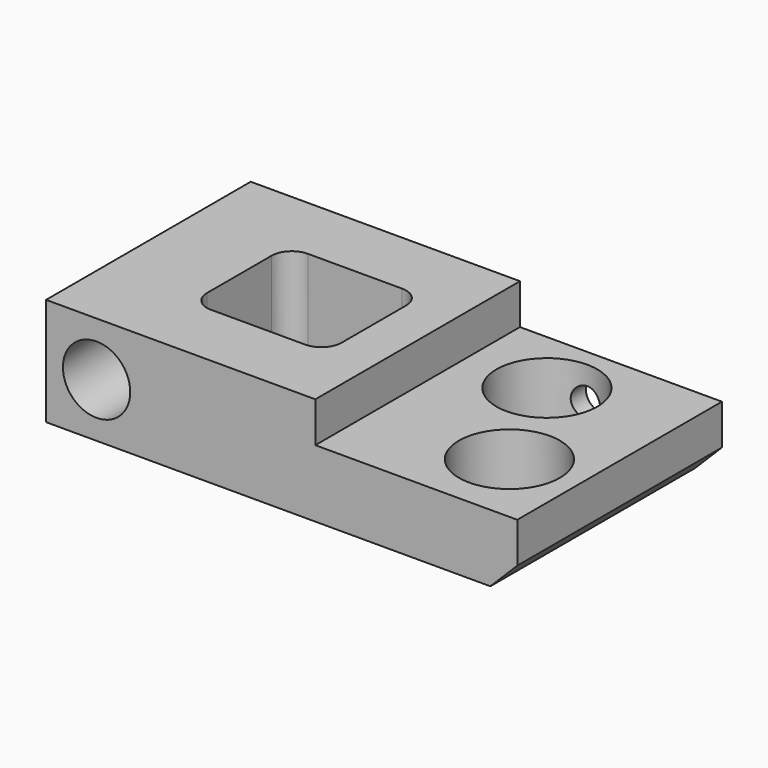
from build123d import *

# Parameters (mm, degrees)
F0_W            = 70
F0_H            = 38
F1_DEPTH        = 16
F3_D            = 9
F3_DEPTH        = 28
F3_CBORE_D      = 10
F3_CBORE_DEPTH  = 10
F3_TIP          = 2.7038727856
F5_D            = 9
F5_DEPTH        = 28
F5_CBORE_D      = 10
F5_CBORE_DEPTH  = 10
F5_TIP          = 2.7038727856
F7_DEPTH        = 25
F8_W            = 30
F8_H            = 38
F9_DEPTH        = 6
F10_SIZE        = 4
F12_D           = 9
F12_DEPTH       = 28
F12_CBORE_D     = 15
F12_CBORE_DEPTH = 8.5
F12_TIP         = 2.7038727856
F14_D           = 15
F14_DEPTH       = 28
F14_TIP         = 4.5064546427
F16_D           = 4.4
F16_DEPTH       = 10
F16_TIP         = 1.3218933619


with BuildPart() as f1:
    # F0 (on Top) → F1 (new body)
    with BuildSketch(Plane.XY):
        Rectangle(F0_W, F0_H)
    extrude(amount=F1_DEPTH)

    # F3
    with Locations(Plane.XZ.offset(19)):
        with Locations((-27.5, 8)):
            CounterBoreHole(F3_D / 2, F3_CBORE_D / 2, F3_CBORE_DEPTH, depth=F3_DEPTH)
            with Locations((0, 0, -(F3_DEPTH + F3_TIP / 2))):  # 118° drill point
                Cone(0, F3_D / 2, F3_TIP, mode=Mode.SUBTRACT)

    # F5
    with Locations(Plane(origin=(0, 19, 0), x_dir=(-1, 0, 0), z_dir=(0, 1, 0))):
        with Locations((27.5, 8)):
            CounterBoreHole(F5_D / 2, F5_CBORE_D / 2, F5_CBORE_DEPTH, depth=F5_DEPTH)
            with Locations((0, 0, -(F5_DEPTH + F5_TIP / 2))):  # 118° drill point
                Cone(0, F5_D / 2, F5_TIP, mode=Mode.SUBTRACT)

    # F6 (on face) → F7 (cut)
    with BuildSketch(Plane.XY.offset(16)):
        with BuildLine():
            Line((-4.5, 9), (-18.5, 9))
            ThreePointArc((-18.5, 9), (-20.6213203436, 8.1213203436), (-21.5, 6))
            Line((-21.5, 6), (-21.5, -6))
            ThreePointArc((-21.5, -6), (-20.6213203436, -8.1213203436), (-18.5, -9))
            Line((-18.5, -9), (-4.5, -9))
            ThreePointArc((-4.5, -9), (-2.3786796564, -8.1213203436), (-1.5, -6))
            Line((-1.5, -6), (-1.5, 6))
            ThreePointArc((-1.5, 6), (-2.3786796564, 8.1213203436), (-4.5, 9))
        make_face()
    extrude(amount=-F7_DEPTH, mode=Mode.SUBTRACT)

    # F8 (on face) → F9 (cut)
    with BuildSketch(Plane.XY.offset(16)):
        with Locations((20, 0)):
            Rectangle(F8_W, F8_H)
    extrude(amount=-F9_DEPTH, mode=Mode.SUBTRACT)

    # F10
    f10_edges = [f1.edges().sort_by_distance(p)[0] for p in [
        (35, 0, 0),
    ]]
    chamfer(f10_edges, length=F10_SIZE)

    # F12
    with Locations(Plane.XY.offset(10)):
        with Locations((24.789, -7.6924054883)):
            CounterBoreHole(F12_D / 2, F12_CBORE_D / 2, F12_CBORE_DEPTH, depth=F12_DEPTH)
            with Locations((0, 0, -(F12_DEPTH + F12_TIP / 2))):  # 118° drill point
                Cone(0, F12_D / 2, F12_TIP, mode=Mode.SUBTRACT)

    # F14
    with Locations(Plane.XY.offset(10)):
        with Locations((17, 9)):
            Hole(F14_D / 2, depth=F14_DEPTH)
            with Locations((0, 0, -(F14_DEPTH + F14_TIP / 2))):  # 118° drill point
                Cone(0, F14_D / 2, F14_TIP, mode=Mode.SUBTRACT)

    # F16
    with Locations(Plane(origin=(0, 19, 0), x_dir=(-1, 0, 0), z_dir=(0, 1, 0))):
        with Locations((-17, 5)):
            Hole(F16_D / 2, depth=F16_DEPTH)
            with Locations((0, 0, -(F16_DEPTH + F16_TIP / 2))):  # 118° drill point
                Cone(0, F16_D / 2, F16_TIP, mode=Mode.SUBTRACT)


solid = f1.part
